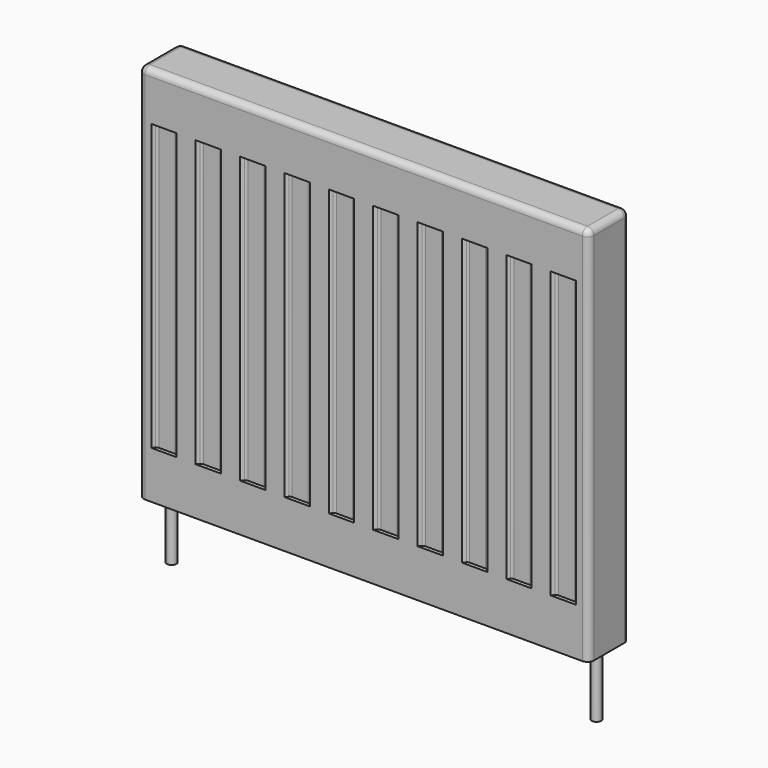
from build123d import *

# Parameters (mm, degrees)
F0_W     = 710
F0_H     = 80
F1_DEPTH = 300
F2_R     = 7.5
F3_DEPTH = 100
F5_DEPTH = 225
F6_R     = 10


with BuildPart() as f1:
    # F0 (on Top) → F1 (new body, symmetric)
    with BuildSketch(Plane.XY):
        with Locations((9.33931, -58.683639)):
            Rectangle(F0_W, F0_H)
    extrude(amount=F1_DEPTH, both=True)

    # F2 (on face) → F3 (join)
    with BuildSketch(Plane(origin=(0, 0, -300), x_dir=(1, 0, 0), z_dir=(0, 0, -1))):
        with Locations((344.33931, 58.683639)):
            Circle(F2_R)
        with Locations((-325.66069, 58.683639)):
            Circle(F2_R)
    extrude(amount=F3_DEPTH)

    # F4 (on Top) → F5 (cut, symmetric)
    with BuildSketch(Plane.XY):
        with BuildLine():
            Line((-285.66069, -18.683639), (-325.66069, -18.683639))
            Line((-325.66069, -18.683639), (-322.124776, -22.897577))
            ThreePointArc((-322.124776, -22.897577), (-320.407645, -24.215178), (-318.294554, -24.683639))
            Line((-318.294554, -24.683639), (-293.026826, -24.683639))
            ThreePointArc((-293.026826, -24.683639), (-290.913735, -24.215178), (-289.196604, -22.897577))
            Line((-289.196604, -22.897577), (-285.66069, -18.683639))
        make_face()
        with BuildLine():
            Line((-215.66069, -18.683639), (-255.66069, -18.683639))
            Line((-255.66069, -18.683639), (-252.124776, -22.897577))
            ThreePointArc((-252.124776, -22.897577), (-250.407645, -24.215178), (-248.294554, -24.683639))
            Line((-248.294554, -24.683639), (-223.026826, -24.683639))
            ThreePointArc((-223.026826, -24.683639), (-220.913735, -24.215178), (-219.196604, -22.897577))
            Line((-219.196604, -22.897577), (-215.66069, -18.683639))
        make_face()
        with BuildLine():
            Line((-145.66069, -18.683639), (-185.66069, -18.683639))
            Line((-185.66069, -18.683639), (-182.124776, -22.897577))
            ThreePointArc((-182.124776, -22.897577), (-180.407645, -24.215178), (-178.294554, -24.683639))
            Line((-178.294554, -24.683639), (-153.026826, -24.683639))
            ThreePointArc((-153.026826, -24.683639), (-150.913735, -24.215178), (-149.196604, -22.897577))
            Line((-149.196604, -22.897577), (-145.66069, -18.683639))
        make_face()
        with BuildLine():
            Line((-75.66069, -18.683639), (-115.66069, -18.683639))
            Line((-115.66069, -18.683639), (-112.124776, -22.897577))
            ThreePointArc((-112.124776, -22.897577), (-110.407645, -24.215178), (-108.294554, -24.683639))
            Line((-108.294554, -24.683639), (-83.026826, -24.683639))
            ThreePointArc((-83.026826, -24.683639), (-80.913735, -24.215178), (-79.196604, -22.897577))
            Line((-79.196604, -22.897577), (-75.66069, -18.683639))
        make_face()
        with BuildLine():
            Line((-5.66069, -18.683639), (-45.66069, -18.683639))
            Line((-45.66069, -18.683639), (-42.124776, -22.897577))
            ThreePointArc((-42.124776, -22.897577), (-40.407645, -24.215178), (-38.294554, -24.683639))
            Line((-38.294554, -24.683639), (-13.026826, -24.683639))
            ThreePointArc((-13.026826, -24.683639), (-10.913735, -24.215178), (-9.196604, -22.897577))
            Line((-9.196604, -22.897577), (-5.66069, -18.683639))
        make_face()
        with BuildLine():
            Line((64.33931, -18.683639), (24.33931, -18.683639))
            Line((24.33931, -18.683639), (27.875224, -22.897577))
            ThreePointArc((27.875224, -22.897577), (29.592355, -24.215178), (31.705446, -24.683639))
            Line((31.705446, -24.683639), (56.973174, -24.683639))
            ThreePointArc((56.973174, -24.683639), (59.086265, -24.215178), (60.803396, -22.897577))
            Line((60.803396, -22.897577), (64.33931, -18.683639))
        make_face()
        with BuildLine():
            Line((134.33931, -18.683639), (94.33931, -18.683639))
            Line((94.33931, -18.683639), (97.875224, -22.897577))
            ThreePointArc((97.875224, -22.897577), (99.592355, -24.215178), (101.705446, -24.683639))
            Line((101.705446, -24.683639), (126.973174, -24.683639))
            ThreePointArc((126.973174, -24.683639), (129.086265, -24.215178), (130.803396, -22.897577))
            Line((130.803396, -22.897577), (134.33931, -18.683639))
        make_face()
        with BuildLine():
            Line((204.33931, -18.683639), (164.33931, -18.683639))
            Line((164.33931, -18.683639), (167.875224, -22.897577))
            ThreePointArc((167.875224, -22.897577), (169.592355, -24.215178), (171.705446, -24.683639))
            Line((171.705446, -24.683639), (196.973174, -24.683639))
            ThreePointArc((196.973174, -24.683639), (199.086265, -24.215178), (200.803396, -22.897577))
            Line((200.803396, -22.897577), (204.33931, -18.683639))
        make_face()
        with BuildLine():
            Line((274.33931, -18.683639), (234.33931, -18.683639))
            Line((234.33931, -18.683639), (237.875224, -22.897577))
            ThreePointArc((237.875224, -22.897577), (239.592355, -24.215178), (241.705446, -24.683639))
            Line((241.705446, -24.683639), (266.973174, -24.683639))
            ThreePointArc((266.973174, -24.683639), (269.086265, -24.215178), (270.803396, -22.897577))
            Line((270.803396, -22.897577), (274.33931, -18.683639))
        make_face()
        with BuildLine():
            Line((344.33931, -18.683639), (304.33931, -18.683639))
            Line((304.33931, -18.683639), (307.875224, -22.897577))
            ThreePointArc((307.875224, -22.897577), (309.592355, -24.215178), (311.705446, -24.683639))
            Line((311.705446, -24.683639), (336.973174, -24.683639))
            ThreePointArc((336.973174, -24.683639), (339.086265, -24.215178), (340.803396, -22.897577))
            Line((340.803396, -22.897577), (344.33931, -18.683639))
        make_face()
        with BuildLine():
            ThreePointArc((-318.294554, -92.683639), (-320.407645, -93.1521), (-322.124776, -94.469701))
            Line((-322.124776, -94.469701), (-325.66069, -98.683639))
            Line((-325.66069, -98.683639), (-285.66069, -98.683639))
            Line((-285.66069, -98.683639), (-289.196604, -94.469701))
            ThreePointArc((-289.196604, -94.469701), (-290.913735, -93.1521), (-293.026826, -92.683639))
            Line((-293.026826, -92.683639), (-318.294554, -92.683639))
        make_face()
        with BuildLine():
            Line((-252.124776, -94.469701), (-255.66069, -98.683639))
            Line((-255.66069, -98.683639), (-215.66069, -98.683639))
            Line((-215.66069, -98.683639), (-219.196604, -94.469701))
            ThreePointArc((-219.196604, -94.469701), (-220.913735, -93.1521), (-223.026826, -92.683639))
            Line((-223.026826, -92.683639), (-248.294554, -92.683639))
            ThreePointArc((-248.294554, -92.683639), (-250.407645, -93.1521), (-252.124776, -94.469701))
        make_face()
        with BuildLine():
            ThreePointArc((200.803396, -94.469701), (199.086265, -93.1521), (196.973174, -92.683639))
            Line((196.973174, -92.683639), (171.705446, -92.683639))
            ThreePointArc((171.705446, -92.683639), (169.592355, -93.1521), (167.875224, -94.469701))
            Line((167.875224, -94.469701), (164.33931, -98.683639))
            Line((164.33931, -98.683639), (204.33931, -98.683639))
            Line((204.33931, -98.683639), (200.803396, -94.469701))
        make_face()
        with BuildLine():
            Line((-112.124776, -94.469701), (-115.66069, -98.683639))
            Line((-115.66069, -98.683639), (-75.66069, -98.683639))
            Line((-75.66069, -98.683639), (-79.196604, -94.469701))
            ThreePointArc((-79.196604, -94.469701), (-80.913735, -93.1521), (-83.026826, -92.683639))
            Line((-83.026826, -92.683639), (-108.294554, -92.683639))
            ThreePointArc((-108.294554, -92.683639), (-110.407645, -93.1521), (-112.124776, -94.469701))
        make_face()
        with BuildLine():
            Line((-145.66069, -98.683639), (-149.196604, -94.469701))
            ThreePointArc((-149.196604, -94.469701), (-150.913735, -93.1521), (-153.026826, -92.683639))
            Line((-153.026826, -92.683639), (-178.294554, -92.683639))
            ThreePointArc((-178.294554, -92.683639), (-180.407645, -93.1521), (-182.124776, -94.469701))
            Line((-182.124776, -94.469701), (-185.66069, -98.683639))
            Line((-185.66069, -98.683639), (-145.66069, -98.683639))
        make_face()
        with BuildLine():
            Line((307.875224, -94.469701), (304.33931, -98.683639))
            Line((304.33931, -98.683639), (344.33931, -98.683639))
            Line((344.33931, -98.683639), (340.803396, -94.469701))
            ThreePointArc((340.803396, -94.469701), (339.086265, -93.1521), (336.973174, -92.683639))
            Line((336.973174, -92.683639), (311.705446, -92.683639))
            ThreePointArc((311.705446, -92.683639), (309.592355, -93.1521), (307.875224, -94.469701))
        make_face()
        with BuildLine():
            Line((-42.124776, -94.469701), (-45.66069, -98.683639))
            Line((-45.66069, -98.683639), (-5.66069, -98.683639))
            Line((-5.66069, -98.683639), (-9.196604, -94.469701))
            ThreePointArc((-9.196604, -94.469701), (-10.913735, -93.1521), (-13.026826, -92.683639))
            Line((-13.026826, -92.683639), (-38.294554, -92.683639))
            ThreePointArc((-38.294554, -92.683639), (-40.407645, -93.1521), (-42.124776, -94.469701))
        make_face()
        with BuildLine():
            Line((64.33931, -98.683639), (60.803396, -94.469701))
            ThreePointArc((60.803396, -94.469701), (59.086265, -93.1521), (56.973174, -92.683639))
            Line((56.973174, -92.683639), (31.705446, -92.683639))
            ThreePointArc((31.705446, -92.683639), (29.592355, -93.1521), (27.875224, -94.469701))
            Line((27.875224, -94.469701), (24.33931, -98.683639))
            Line((24.33931, -98.683639), (64.33931, -98.683639))
        make_face()
        with BuildLine():
            ThreePointArc((270.803396, -94.469701), (269.086265, -93.1521), (266.973174, -92.683639))
            Line((266.973174, -92.683639), (241.705446, -92.683639))
            ThreePointArc((241.705446, -92.683639), (239.592355, -93.1521), (237.875224, -94.469701))
            Line((237.875224, -94.469701), (234.33931, -98.683639))
            Line((234.33931, -98.683639), (274.33931, -98.683639))
            Line((274.33931, -98.683639), (270.803396, -94.469701))
        make_face()
        with BuildLine():
            Line((97.875224, -94.469701), (94.33931, -98.683639))
            Line((94.33931, -98.683639), (134.33931, -98.683639))
            Line((134.33931, -98.683639), (130.803396, -94.469701))
            ThreePointArc((130.803396, -94.469701), (129.086265, -93.1521), (126.973174, -92.683639))
            Line((126.973174, -92.683639), (101.705446, -92.683639))
            ThreePointArc((101.705446, -92.683639), (99.592355, -93.1521), (97.875224, -94.469701))
        make_face()
    extrude(amount=F5_DEPTH, both=True, mode=Mode.SUBTRACT)

    # F6
    f6_edges = [f1.edges().sort_by_distance(p)[0] for p in [
        (-345.66069, -98.683639, 0),
        (-345.66069, -18.683639, 0),
        (364.33931, -98.683639, 0),
        (364.33931, -18.683639, 0),
        (9.33931, -98.683639, 300),
        (9.33931, -18.683639, 300),
        (364.33931, -58.683639, 300),
        (-345.66069, -58.683639, 300),
    ]]
    fillet(f6_edges, radius=F6_R)


solid = f1.part
